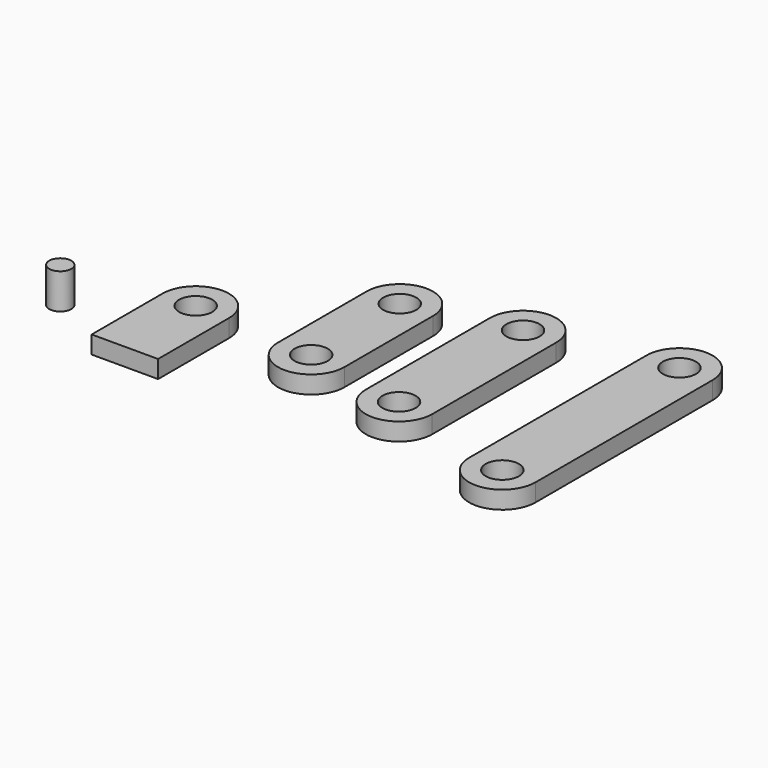
from build123d import *

# Parameters (mm, degrees)
F0_R     = 7.5
F1_DEPTH = 8
F2_R     = 7.5
F3_DEPTH = 8
F4_R     = 7.5
F5_DEPTH = 8
F6_R     = 7.5
F7_DEPTH = 8
F8_R     = 5
F9_DEPTH = 16


with BuildPart() as f1:
    # F0 (on Top) → F1 (new body)
    with BuildSketch(Plane.XY):
        with BuildLine():
            Line((15, 0), (15, 40))
            ThreePointArc((15, 40), (0, 55), (-15, 40))
            Line((-15, 40), (-15, 0))
            Line((-15, 0), (15, 0))
        make_face()
        with Locations((0, 40)):
            Circle(F0_R, mode=Mode.SUBTRACT)
    extrude(amount=F1_DEPTH)


with BuildPart() as f3:
    # F2 (on Top) → F3 (new body)
    with BuildSketch(Plane.XY):
        with BuildLine():
            Line((70.183553, 36.220128), (70.183553, 86.220128))
            ThreePointArc((70.183553, 86.220128), (55.183553, 101.220128), (40.183553, 86.220128))
            Line((40.183553, 86.220128), (40.183553, 36.220128))
            ThreePointArc((40.183553, 36.220128), (55.183553, 21.220128), (70.183553, 36.220128))
        make_face()
        with Locations((55.183553, 36.220128)):
            Circle(F2_R, mode=Mode.SUBTRACT)
        with Locations((55.183553, 86.220128)):
            Circle(F2_R, mode=Mode.SUBTRACT)
    extrude(amount=F3_DEPTH)


with BuildPart() as f5:
    # F4 (on Top) → F5 (new body)
    with BuildSketch(Plane.XY):
        with BuildLine():
            Line((86.811931, 97.518846), (86.811931, 27.518846))
            ThreePointArc((86.811931, 27.518846), (101.811931, 12.518846), (116.811931, 27.518846))
            Line((116.811931, 27.518846), (116.811931, 97.518846))
            ThreePointArc((116.811931, 97.518846), (101.811931, 112.518846), (86.811931, 97.518846))
        make_face()
        with Locations((101.811931, 27.518846)):
            Circle(F4_R, mode=Mode.SUBTRACT)
        with Locations((101.811931, 97.518846)):
            Circle(F4_R, mode=Mode.SUBTRACT)
    extrude(amount=F5_DEPTH)


with BuildPart() as f7:
    # F6 (on Top) → F7 (new body)
    with BuildSketch(Plane.XY):
        with BuildLine():
            Line((177.788905, 9.619664), (177.788905, 109.619664))
            ThreePointArc((177.788905, 109.619664), (162.788905, 124.619664), (147.788905, 109.619664))
            Line((147.788905, 109.619664), (147.788905, 9.619664))
            ThreePointArc((147.788905, 9.619664), (162.788905, -5.380336), (177.788905, 9.619664))
        make_face()
        with Locations((162.788905, 9.619664)):
            Circle(F6_R, mode=Mode.SUBTRACT)
        with Locations((162.788905, 109.619664)):
            Circle(F6_R, mode=Mode.SUBTRACT)
    extrude(amount=F7_DEPTH)


with BuildPart() as f9:
    # F8 (on Top) → F9 (new body)
    with BuildSketch(Plane.XY):
        with Locations((-47.299091, 22.642907)):
            Circle(F8_R)
    extrude(amount=F9_DEPTH)


solid = Compound([f1.part, f3.part, f5.part, f7.part, f9.part])
